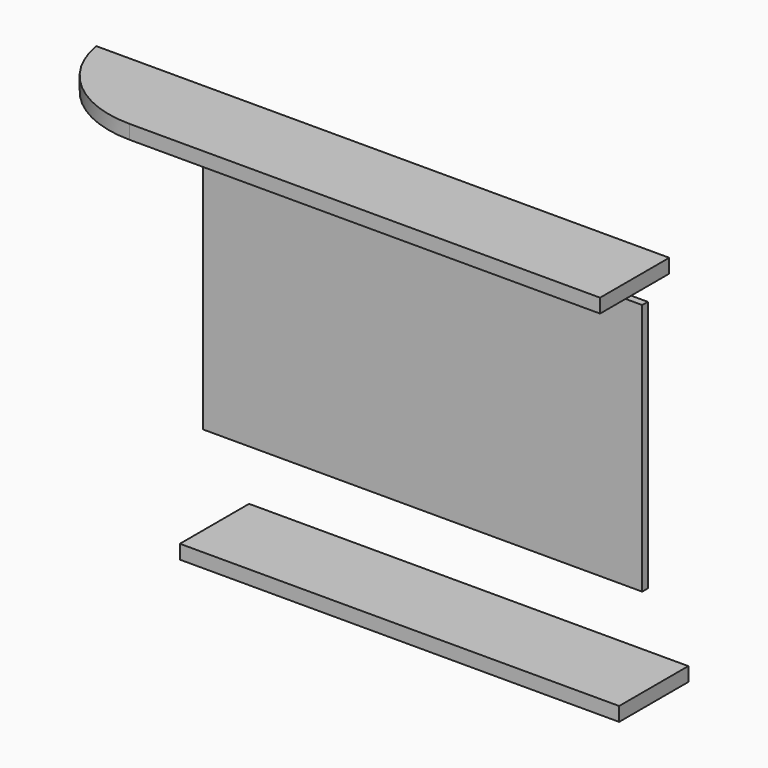
from build123d import *

# Parameters (mm, degrees)
F0_W      = 1193.8
F0_H      = 685.8
F1_DEPTH  = 19.05
F2_W      = 1193.8
F2_H      = 38.1
F3_DEPTH  = 234.95
F10_DEPTH = 38.1


with BuildPart() as f1:
    # F0 (on Front) → F1 (new body)
    with BuildSketch(Plane.XZ):
        Rectangle(F0_W, F0_H)
    extrude(amount=-F1_DEPTH)


with BuildPart() as f3:
    # F2 (on face) → F3 (new body)
    with BuildSketch(Plane.XZ):
        with Locations((-1120.3116551384, 460.8679562807)):
            Rectangle(F2_W, F2_H)
    extrude(amount=F3_DEPTH)


with BuildPart() as f4_1:
    # F4: copy of F3
    add(f3.part)


with BuildPart() as f5_1:
    # F5: copy of F3
    add(f3.part.moved(Location((1209.04, -220.98, -1148.08))))


with BuildPart() as f3_1:
    # F7: moved
    add(f3.part.moved(Location((1193.8, 0, 0))))

    # F9 (on face) → F10 (join)
    with BuildSketch(Plane(origin=(0, 0, 441.8179562807), x_dir=(1, 0, 0), z_dir=(0, 0, -1))):
        with BuildLine():
            Line((-523.4116551384, 0), (-523.4116551384, 234.95))
            Line((-523.4116551384, 234.95), (-608.1544756889, 234.95))
            ThreePointArc((-608.1544756889, 234.95), (-790.4847066385, 168.3834234773), (-887.0375156403, 0))
            Line((-887.0375156403, 0), (-523.4116551384, 0))
        make_face()
    extrude(amount=-F10_DEPTH)


with BuildPart() as f5_1_1:
    # F8: moved
    add(f5_1.part.moved(Location((0, 266.7, 157.48))))


solid = Compound([f1.part, f3_1.part, f5_1_1.part])
